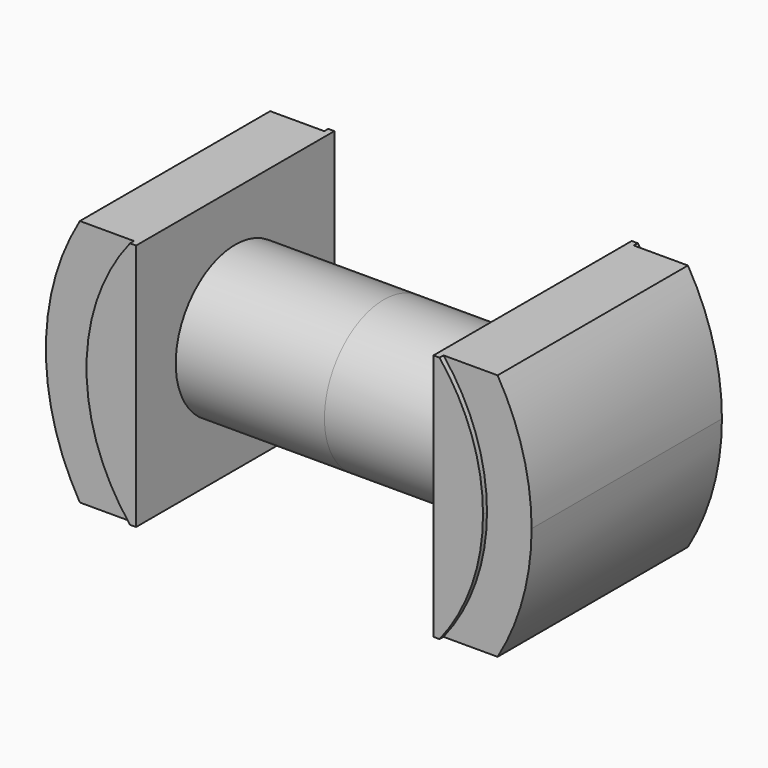
from build123d import *

# Parameters (mm, degrees)
F1_START      = -15
F0_W          = 25
F0_H          = 25
F0_R          = 7.5
F1_DEPTH      = 10
F2_START      = 15
F2_DEPTH      = 10
F3_DEPTH      = 16
F3_DEPTH_BACK = 16
F5_START      = -25
F4_R          = 24.5
F5_DEPTH      = 50
F7_START      = -12
F6_R          = 37.8818681869
F6_R_2        = 20
F7_DEPTH      = 13
F8_START      = 12
F8_DEPTH      = 13


with BuildPart() as f1:
    # F0 (on Right) → F1 (new body)
    with BuildSketch(Plane.YZ.offset(F1_START)):
        Rectangle(F0_W, F0_H)
        Circle(F0_R, mode=Mode.SUBTRACT)
        Circle(F0_R)
    extrude(amount=-F1_DEPTH)



with BuildPart() as f2:
    # F0 (on Right) → F2 (new body)
    with BuildSketch(Plane.YZ.offset(F2_START)):
        Rectangle(F0_W, F0_H)
        Circle(F0_R, mode=Mode.SUBTRACT)
        Circle(F0_R)
    extrude(amount=F2_DEPTH)


with BuildPart() as f1_1:
    add(f1.part)

    add(f2.part)  # F3 merges F2
    # F0 (on Right) → F3 (join, two sides)
    with BuildSketch(Plane.YZ) as f3_sk:
        Circle(F0_R)
    extrude(amount=F3_DEPTH)
    extrude(f3_sk.sketch, amount=-F3_DEPTH_BACK)

    # F4 (on Front) → F5 (intersect)
    with BuildSketch(Plane.XZ.offset(F5_START)):
        Circle(F4_R)
    extrude(amount=F5_DEPTH, mode=Mode.INTERSECT)

    # F6 (on Front) → F7 (cut)
    with BuildSketch(Plane.XZ.offset(F7_START)):
        Circle(F6_R)
        Circle(F6_R_2, mode=Mode.SUBTRACT)
    extrude(amount=-F7_DEPTH, mode=Mode.SUBTRACT)

    # F6 (on Front) → F8 (cut)
    with BuildSketch(Plane.XZ.offset(F8_START)):
        Circle(F6_R)
        Circle(F6_R_2, mode=Mode.SUBTRACT)
    extrude(amount=F8_DEPTH, mode=Mode.SUBTRACT)


solid = f1_1.part
